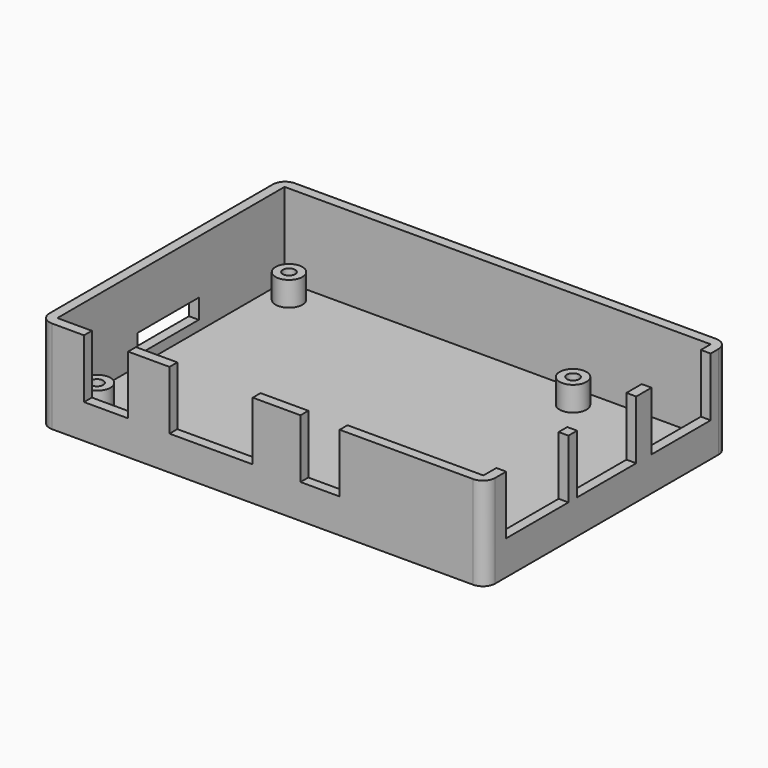
from build123d import *

# Parameters (mm, degrees)
F0_W     = 87
F0_H     = 58
F1_DEPTH = 2
F2_DEPTH = 19
F3_R     = 2.75
F3_R_2   = 1.25
F4_DEPTH = 5
F5_W     = 9
F5_H     = 2
F5_W_2   = 8
F5_W_3   = 17
F5_W_4   = 2
F5_H_2   = 15.9
F5_H_3   = 15.1
F6_DEPTH = 12
F7_W     = 15.6
F7_H     = 4
F8_DEPTH = 2


with BuildPart() as f1:
    # F0 (on Top) → F1 (new body)
    with BuildSketch(Plane.XY):
        with BuildLine():
            ThreePointArc((0, 2.5), (0.732233047, 0.732233047), (2.5, 0))
            Line((2.5, 0), (88.5, 0))
            ThreePointArc((88.5, 0), (90.267766953, 0.732233047), (91, 2.5))
            Line((91, 2.5), (91, 59.5))
            ThreePointArc((91, 59.5), (90.267766953, 61.267766953), (88.5, 62))
            Line((88.5, 62), (2.5, 62))
            ThreePointArc((2.5, 62), (0.732233047, 61.267766953), (0, 59.5))
            Line((0, 59.5), (0, 2.5))
        make_face()
        with Locations((45.5, 31)):
            Rectangle(F0_W, F0_H, mode=Mode.SUBTRACT)
        with Locations((45.5, 31)):
            Rectangle(F0_W, F0_H)
    extrude(amount=F1_DEPTH)

    # F0 (on Top) → F2 (join)
    with BuildSketch(Plane.XY):
        with BuildLine():
            ThreePointArc((0, 2.5), (0.732233047, 0.732233047), (2.5, 0))
            Line((2.5, 0), (88.5, 0))
            ThreePointArc((88.5, 0), (90.267766953, 0.732233047), (91, 2.5))
            Line((91, 2.5), (91, 59.5))
            ThreePointArc((91, 59.5), (90.267766953, 61.267766953), (88.5, 62))
            Line((88.5, 62), (2.5, 62))
            ThreePointArc((2.5, 62), (0.732233047, 61.267766953), (0, 59.5))
            Line((0, 59.5), (0, 2.5))
        make_face()
        with Locations((45.5, 31)):
            Rectangle(F0_W, F0_H, mode=Mode.SUBTRACT)
    extrude(amount=F2_DEPTH)

    # F3 (on face) → F4 (join)
    with BuildSketch(Plane.XY.offset(2)):
        with Locations((6.5, 55.5)):
            Circle(F3_R)
        with Locations((6.5, 55.5)):
            Circle(F3_R_2, mode=Mode.SUBTRACT)
        with Locations((64.5, 55.5)):
            Circle(F3_R)
        with Locations((64.5, 55.5)):
            Circle(F3_R_2, mode=Mode.SUBTRACT)
        with Locations((6.5, 6.5)):
            Circle(F3_R)
        with Locations((6.5, 6.5)):
            Circle(F3_R_2, mode=Mode.SUBTRACT)
        with Locations((64.5, 6.5)):
            Circle(F3_R)
        with Locations((64.5, 6.5)):
            Circle(F3_R_2, mode=Mode.SUBTRACT)
    extrude(amount=F4_DEPTH)

    # F5 (on face) → F6 (cut)
    with BuildSketch(Plane.XY.offset(19)):
        with Locations((13.55, 1)):
            Rectangle(F5_W, F5_H)
        with Locations((57.25, 1)):
            Rectangle(F5_W_2, F5_H)
        with Locations((35, 1)):
            Rectangle(F5_W_3, F5_H)
        with Locations((90, 13.25)):
            Rectangle(F5_W_4, F5_H_2)
        with Locations((90, 30.95)):
            Rectangle(F5_W_4, F5_H_3)
        with Locations((90, 49.95)):
            Rectangle(F5_W_4, F5_H_3)
    extrude(amount=-F6_DEPTH, mode=Mode.SUBTRACT)

    # F7 (on face) → F8 (cut, through all)
    with BuildSketch(Plane(origin=(0, 0, 0), x_dir=(0, -1, 0), z_dir=(-1, 0, 0))):
        with Locations((-30.3, 6)):
            Rectangle(F7_W, F7_H)
    extrude(amount=-F8_DEPTH, mode=Mode.SUBTRACT)


solid = f1.part
